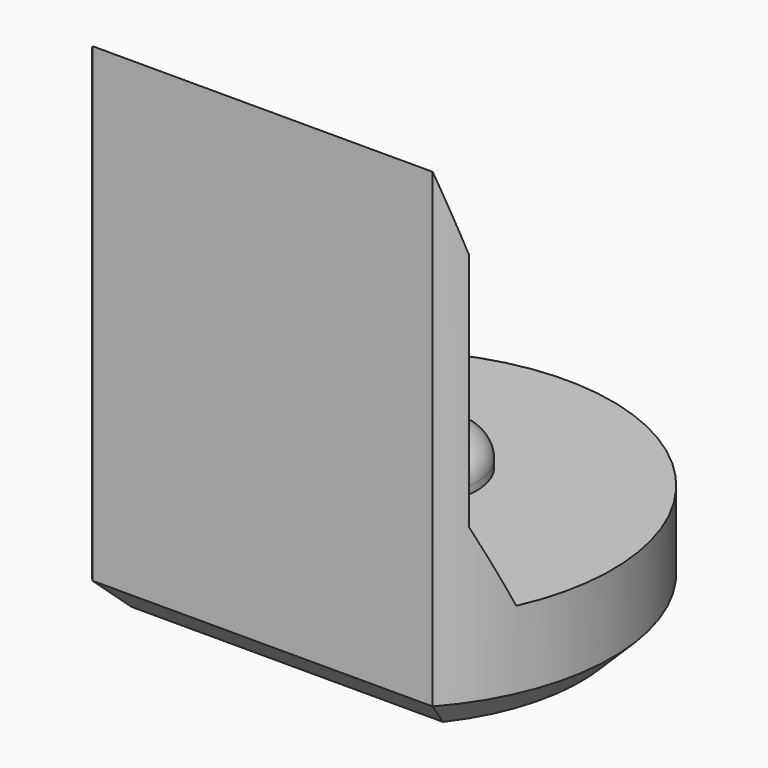
from build123d import *

# Parameters (mm, degrees)
PAD008_DEPTH         = 6.5
POCKET007_DEPTH      = 2.951
POCKET007_DEPTH_BACK = 2.951
SKETCH023_R          = 0.8
PAD009_DEPTH         = 0.4
FILLET001_R          = 0.3
CHAMFER007_SIZE      = 0.4


with BuildPart() as part:
    # Sketch022 → Pad008 (new body)
    with BuildSketch(Plane.XY):
        with BuildLine():
            ThreePointArc((2.2, -1.9653244007), (0, 2.95), (-2.2, -1.9653244007))
            Line((-2.2, -1.9653244007), (2.2, -1.9653244007))
        make_face()
    extrude(amount=PAD008_DEPTH)

    # Sketch024 → Pocket007 (cut, two sides)
    with BuildSketch(Plane.YZ) as pocket007_sk:
        Polygon((-1.97, 6.5), (-1.67, 5.5), (-1.67, 2.4), (-1.22, 1.4), (4, 1.4), (4, 6.5), align=None)
    extrude(amount=-POCKET007_DEPTH, mode=Mode.SUBTRACT)
    extrude(pocket007_sk.sketch, amount=POCKET007_DEPTH_BACK, mode=Mode.SUBTRACT)

    # Sketch023 (on Face7 of Pocket007) → Pad009 (join)
    with BuildSketch(Plane.XY.offset(1.4)):
        with Locations((0, 0.5)):
            Circle(SKETCH023_R)
    extrude(amount=PAD009_DEPTH)

    # Fillet001
    fillet001_edges = [part.edges().sort_by_distance(p)[0] for p in [
        (-0.8, 0.5, 1.8),
    ]]
    fillet(fillet001_edges, radius=FILLET001_R)

    # Chamfer007
    chamfer007_edges = [part.edges().sort_by_distance(p)[0] for p in [
        (0, 2.95, 0),
        (0, -1.965324, 0),
    ]]
    chamfer(chamfer007_edges, length=CHAMFER007_SIZE)


with BuildPart() as part_1:
    # Body092 placement: moved
    add(part.part.moved(Location((0, 72, 0))))


solid = part_1.part
